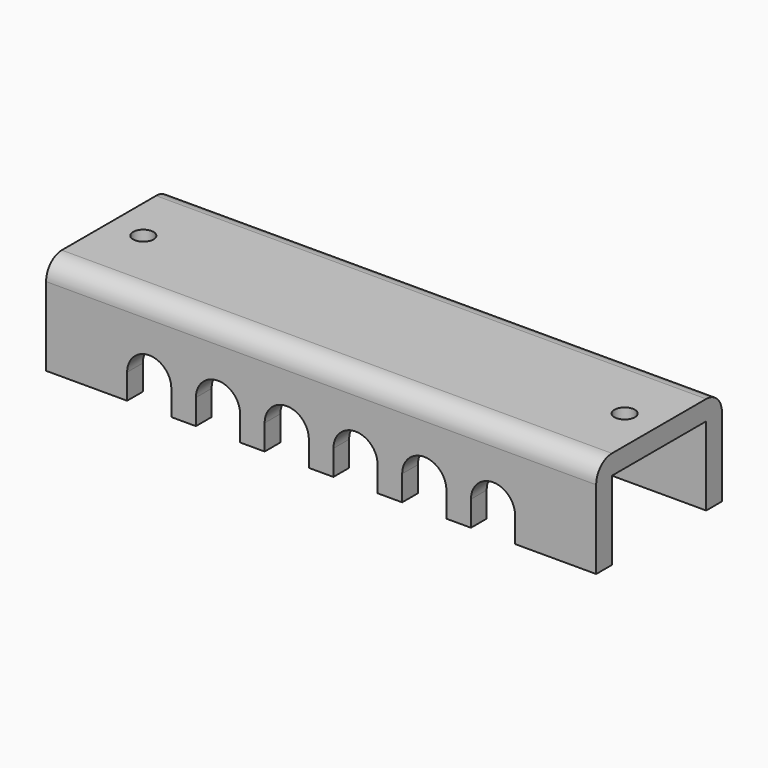
from build123d import *

# Parameters (mm, degrees)
F0_W     = 88.9
F0_H     = 25.4
F1_DEPTH = 3.175
F2_W     = 88.9
F2_H     = 3.175
F3_DEPTH = 12.7
F5_D     = 3.3
F7_DEPTH = 3.175
F8_R     = 3.175


with BuildPart() as f1:
    # F0 (on Top) → F1 (new body)
    with BuildSketch(Plane.XY):
        Rectangle(F0_W, F0_H)
    extrude(amount=F1_DEPTH)

    # F2 (on face) → F3 (join)
    with BuildSketch(Plane(origin=(0, 0, 0), x_dir=(1, 0, 0), z_dir=(0, 0, -1))):
        with Locations((0, 11.1125)):
            Rectangle(F2_W, F2_H)
        with Locations((0, -11.1125)):
            Rectangle(F2_W, F2_H)
    extrude(amount=F3_DEPTH)

    # F5 (through all)
    with Locations(Plane.XY.offset(3.175)):
        with Locations((-38.89375, 0), (38.89375, 0)):
            Hole(F5_D / 2)

    # F6 (on face) → F7 (cut)
    with BuildSketch(Plane.XZ.offset(12.7)):
        with BuildLine():
            Line((-31.353125, -8.636), (-24.209375, -8.636))
            ThreePointArc((-24.209375, -8.636), (-27.78125, -5.064125), (-31.353125, -8.636))
        make_face()
        with BuildLine():
            Line((-24.209375, -12.7), (-24.209375, -8.636))
            ThreePointArc((-24.209375, -8.636), (-27.78125, -12.207875), (-31.353125, -8.636))
            Line((-31.353125, -8.636), (-31.353125, -12.7))
            Line((-31.353125, -12.7), (-24.209375, -12.7))
        make_face()
        with BuildLine():
            ThreePointArc((-31.353125, -8.636), (-27.78125, -12.207875), (-24.209375, -8.636))
            Line((-24.209375, -8.636), (-31.353125, -8.636))
        make_face()
        with BuildLine():
            Line((-20.240625, -8.636), (-13.096875, -8.636))
            ThreePointArc((-13.096875, -8.636), (-16.66875, -5.064125), (-20.240625, -8.636))
        make_face()
        with BuildLine():
            Line((-13.096875, -12.7), (-13.096875, -8.636))
            ThreePointArc((-13.096875, -8.636), (-16.66875, -12.207875), (-20.240625, -8.636))
            Line((-20.240625, -8.636), (-20.240625, -12.7))
            Line((-20.240625, -12.7), (-13.096875, -12.7))
        make_face()
        with BuildLine():
            ThreePointArc((-20.240625, -8.636), (-16.66875, -12.207875), (-13.096875, -8.636))
            Line((-13.096875, -8.636), (-20.240625, -8.636))
        make_face()
        with BuildLine():
            Line((-9.128125, -8.636), (-1.984375, -8.636))
            ThreePointArc((-1.984375, -8.636), (-5.55625, -5.064125), (-9.128125, -8.636))
        make_face()
        with BuildLine():
            Line((-1.984375, -12.7), (-1.984375, -8.636))
            ThreePointArc((-1.984375, -8.636), (-5.55625, -12.207875), (-9.128125, -8.636))
            Line((-9.128125, -8.636), (-9.128125, -12.7))
            Line((-9.128125, -12.7), (-1.984375, -12.7))
        make_face()
        with BuildLine():
            ThreePointArc((-9.128125, -8.636), (-5.55625, -12.207875), (-1.984375, -8.636))
            Line((-1.984375, -8.636), (-9.128125, -8.636))
        make_face()
        with BuildLine():
            Line((1.984375, -8.636), (9.128125, -8.636))
            ThreePointArc((9.128125, -8.636), (5.55625, -5.064125), (1.984375, -8.636))
        make_face()
        with BuildLine():
            Line((9.128125, -12.7), (9.128125, -8.636))
            ThreePointArc((9.128125, -8.636), (5.55625, -12.207875), (1.984375, -8.636))
            Line((1.984375, -8.636), (1.984375, -12.7))
            Line((1.984375, -12.7), (9.128125, -12.7))
        make_face()
        with BuildLine():
            ThreePointArc((1.984375, -8.636), (5.55625, -12.207875), (9.128125, -8.636))
            Line((9.128125, -8.636), (1.984375, -8.636))
        make_face()
        with BuildLine():
            Line((13.096875, -8.636), (20.240625, -8.636))
            ThreePointArc((20.240625, -8.636), (16.66875, -5.064125), (13.096875, -8.636))
        make_face()
        with BuildLine():
            Line((20.240625, -12.7), (20.240625, -8.636))
            ThreePointArc((20.240625, -8.636), (16.66875, -12.207875), (13.096875, -8.636))
            Line((13.096875, -8.636), (13.096875, -12.7))
            Line((13.096875, -12.7), (20.240625, -12.7))
        make_face()
        with BuildLine():
            ThreePointArc((13.096875, -8.636), (16.66875, -12.207875), (20.240625, -8.636))
            Line((20.240625, -8.636), (13.096875, -8.636))
        make_face()
        with BuildLine():
            Line((24.209375, -8.636), (31.353125, -8.636))
            ThreePointArc((31.353125, -8.636), (27.78125, -5.064125), (24.209375, -8.636))
        make_face()
        with BuildLine():
            Line((31.353125, -12.7), (31.353125, -8.636))
            ThreePointArc((31.353125, -8.636), (27.78125, -12.207875), (24.209375, -8.636))
            Line((24.209375, -8.636), (24.209375, -12.7))
            Line((24.209375, -12.7), (31.353125, -12.7))
        make_face()
        with BuildLine():
            ThreePointArc((24.209375, -8.636), (27.78125, -12.207875), (31.353125, -8.636))
            Line((31.353125, -8.636), (24.209375, -8.636))
        make_face()
    extrude(amount=-F7_DEPTH, mode=Mode.SUBTRACT)

    # F8
    f8_edges = [f1.edges().sort_by_distance(p)[0] for p in [
        (0, -12.7, 3.175),
        (0, 12.7, 3.175),
    ]]
    fillet(f8_edges, radius=F8_R)


solid = f1.part
